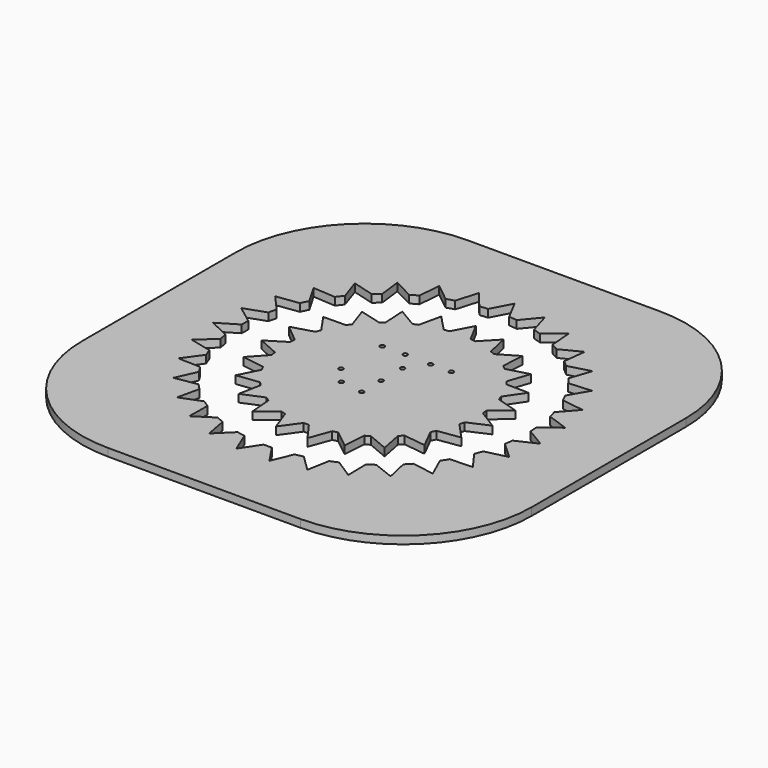
from build123d import *

# Parameters (mm, degrees)
F0_W     = 177.8
F0_H     = 177.8
F0_R     = 76.2
F0_R_2   = 0.8763
F1_DEPTH = 1.524
F2_R     = 50.8


with BuildPart() as f1:
    # F0 (on Top) → F1 (new body, symmetric)
    with BuildSketch(Plane.XY):
        with Locations((0.25484, -0.000745)):
            Rectangle(F0_W, F0_H)
        Circle(F0_R, mode=Mode.SUBTRACT)
        Circle(F0_R)
        with BuildLine():
            ThreePointArc((56.972457, 4.501288), (57.076648, 2.8946), (57.135538, 1.285615))
            Line((57.135538, 1.285615), (64.761016, -3.284307))
            Line((64.761016, -3.284307), (56.71233, -7.059325))
            ThreePointArc((56.71233, -7.059325), (56.490965, -8.654097), (56.224762, -10.242001))
            Line((56.224762, -10.242001), (62.774228, -16.253374))
            Line((62.774228, -16.253374), (54.130394, -18.330929))
            ThreePointArc((54.130394, -18.330929), (53.592534, -19.848495), (53.012139, -21.350308))
            Line((53.012139, -21.350308), (58.217456, -28.557025))
            Line((58.217456, -28.557025), (49.332353, -28.852062))
            ThreePointArc((49.332353, -28.852062), (48.500019, -30.230293), (47.629192, -31.584531))
            Line((47.629192, -31.584531), (51.277254, -39.691549))
            Line((51.277254, -39.691549), (42.514639, -38.191988))
            ThreePointArc((42.514639, -38.191988), (41.421908, -39.374459), (40.2963, -40.52568))
            Line((40.2963, -40.52568), (42.237756, -49.201096))
            Line((42.237756, -49.201096), (33.956372, -45.96833))
            ThreePointArc((33.956372, -45.96833), (32.647978, -46.906631), (31.313673, -47.807702))
            Line((31.313673, -47.807702), (31.469038, -56.696344))
            Line((31.469038, -56.696344), (24.007926, -51.862723))
            ThreePointArc((24.007926, -51.862723), (22.537437, -52.518439), (21.04906, -53.132472))
            Line((21.04906, -53.132472), (19.411975, -61.870438))
            Line((19.411975, -61.870438), (13.076593, -55.63385))
            ThreePointArc((13.076593, -55.63385), (11.50421, -55.980136), (9.922697, -56.281992))
            Line((9.922697, -56.281992), (6.560183, -64.511548))
            Line((6.560183, -64.511548), (1.609903, -57.12732))
            ThreePointArc((1.609903, -57.12732), (0, -57.15), (-1.609903, -57.12732))
            Line((-1.609903, -57.12732), (-6.560183, -64.511548))
            Line((-6.560183, -64.511548), (-9.922697, -56.281992))
            ThreePointArc((-9.922697, -56.281992), (-11.50421, -55.980136), (-13.076593, -55.63385))
            Line((-13.076593, -55.63385), (-19.411975, -61.870438))
            Line((-19.411975, -61.870438), (-21.04906, -53.132472))
            ThreePointArc((-21.04906, -53.132472), (-22.537437, -52.518439), (-24.007926, -51.862723))
            Line((-24.007926, -51.862723), (-31.469038, -56.696344))
            Line((-31.469038, -56.696344), (-31.313673, -47.807702))
            ThreePointArc((-31.313673, -47.807702), (-32.647978, -46.906631), (-33.956372, -45.96833))
            Line((-33.956372, -45.96833), (-42.237756, -49.201096))
            Line((-42.237756, -49.201096), (-40.2963, -40.52568))
            ThreePointArc((-40.2963, -40.52568), (-41.421908, -39.374459), (-42.514639, -38.191988))
            Line((-42.514639, -38.191988), (-51.277254, -39.691549))
            Line((-51.277254, -39.691549), (-47.629192, -31.584531))
            ThreePointArc((-47.629192, -31.584531), (-48.500019, -30.230293), (-49.332353, -28.852062))
            Line((-49.332353, -28.852062), (-58.217456, -28.557025))
            Line((-58.217456, -28.557025), (-53.012139, -21.350308))
            ThreePointArc((-53.012139, -21.350308), (-53.592534, -19.848495), (-54.130394, -18.330929))
            Line((-54.130394, -18.330929), (-62.774228, -16.253374))
            Line((-62.774228, -16.253374), (-56.224762, -10.242001))
            ThreePointArc((-56.224762, -10.242001), (-56.490965, -8.654097), (-56.71233, -7.059325))
            Line((-56.71233, -7.059325), (-64.761016, -3.284307))
            Line((-64.761016, -3.284307), (-57.135538, 1.285615))
            ThreePointArc((-57.135538, 1.285615), (-57.076648, 2.8946), (-56.972457, 4.501288))
            Line((-56.972457, 4.501288), (-64.09648, 9.81922))
            Line((-64.09648, 9.81922), (-55.707178, 12.760597))
            ThreePointArc((-55.707178, 12.760597), (-55.325607, 14.324792), (-54.900125, 15.877618))
            Line((-54.900125, 15.877618), (-60.807827, 22.520746))
            Line((-60.807827, 22.520746), (-51.998159, 23.71316))
            ThreePointArc((-51.998159, 23.71316), (-51.309529, 25.168526), (-50.580176, 26.603916))
            Line((-50.580176, 26.603916), (-55.029694, 34.300271))
            Line((-55.029694, 34.300271), (-46.16033, 33.694902))
            ThreePointArc((-46.16033, 33.694902), (-45.192833, 34.981857), (-44.189468, 36.241047))
            Line((-44.189468, 36.241047), (-46.99864, 44.675538))
            Line((-46.99864, 44.675538), (-38.432691, 42.297172))
            ThreePointArc((-38.432691, 42.297172), (-37.225937, 43.363027), (-35.989638, 44.394465))
            Line((-35.989638, 44.394465), (-37.043455, 53.221784))
            Line((-37.043455, 53.221784), (-29.131614, 49.16779))
            ThreePointArc((-29.131614, 49.16779), (-27.735007, 49.968909), (-26.316388, 50.730368))
            Line((-26.316388, 50.730368), (-25.571707, 59.589124))
            Line((-25.571707, 59.589124), (-18.637884, 54.025473))
            ThreePointArc((-18.637884, 54.025473), (-17.108602, 54.529059), (-15.565742, 54.989364))
            Line((-15.565742, 54.989364), (-13.05305, 63.516878))
            Line((-13.05305, 63.516878), (-7.381118, 56.671347))
            ThreePointArc((-7.381118, 56.671347), (-5.78177, 56.856782), (-4.177832, 56.99709))
            Line((-4.177832, 56.99709), (0, 64.844243))
            Line((0, 64.844243), (4.177832, 56.99709))
            ThreePointArc((4.177832, 56.99709), (5.78177, 56.856782), (7.381118, 56.671347))
            Line((7.381118, 56.671347), (13.05305, 63.516878))
            Line((13.05305, 63.516878), (15.565742, 54.989364))
            ThreePointArc((15.565742, 54.989364), (17.108602, 54.529059), (18.637884, 54.025473))
            Line((18.637884, 54.025473), (25.571707, 59.589124))
            Line((25.571707, 59.589124), (26.316388, 50.730368))
            ThreePointArc((26.316388, 50.730368), (27.735007, 49.968909), (29.131614, 49.16779))
            Line((29.131614, 49.16779), (37.043455, 53.221784))
            Line((37.043455, 53.221784), (35.989638, 44.394465))
            ThreePointArc((35.989638, 44.394465), (37.225937, 43.363027), (38.432691, 42.297172))
            Line((38.432691, 42.297172), (46.99864, 44.675538))
            Line((46.99864, 44.675538), (44.189468, 36.241047))
            ThreePointArc((44.189468, 36.241047), (45.192833, 34.981857), (46.16033, 33.694902))
            Line((46.16033, 33.694902), (55.029694, 34.300271))
            Line((55.029694, 34.300271), (50.580176, 26.603916))
            ThreePointArc((50.580176, 26.603916), (51.309529, 25.168526), (51.998159, 23.71316))
            Line((51.998159, 23.71316), (60.807827, 22.520746))
            Line((60.807827, 22.520746), (54.900125, 15.877618))
            ThreePointArc((54.900125, 15.877618), (55.325607, 14.324792), (55.707178, 12.760597))
            Line((55.707178, 12.760597), (64.09648, 9.81922))
            Line((64.09648, 9.81922), (56.972457, 4.501288))
        make_face(mode=Mode.SUBTRACT)
        with BuildLine():
            ThreePointArc((-14.240614, 35.338575), (-10.279257, 36.687149), (-6.1939, 37.593159))
            Line((-6.1939, 37.593159), (-12.334326, 44.021787))
            Line((-12.334326, 44.021787), (-14.240614, 35.338575))
        make_face()
        with BuildLine():
            ThreePointArc((-23.246767, 30.186053), (-19.796148, 32.553379), (-16.106726, 34.528009))
            Line((-16.106726, 34.528009), (-23.753872, 39.061578))
            Line((-23.753872, 39.061578), (-23.246767, 30.186053))
        make_face()
        with BuildLine():
            ThreePointArc((-30.528814, 22.79477), (-27.84485, 26.005275), (-24.82499, 28.902074))
            Line((-24.82499, 28.902074), (-33.411702, 31.204351))
            Line((-33.411702, 31.204351), (-30.528814, 22.79477))
        make_face()
        with BuildLine():
            ThreePointArc((-35.546678, 13.712903), (-33.828427, 17.528478), (-31.702098, 21.132604))
            Line((-31.702098, 21.132604), (-40.591538, 21.03284))
            Line((-40.591538, 21.03284), (-35.546678, 13.712903))
        make_face()
        with BuildLine():
            ThreePointArc((37.496775, -6.752913), (37.948894, -3.389901), (38.1, 0))
            ThreePointArc((38.1, 0), (38.091762, 0.792274), (38.06705, 1.584206))
            ThreePointArc((38.06705, 1.584206), (38.01118, 2.600036), (37.928207, 3.614012))
            ThreePointArc((37.928207, 3.614012), (37.303104, 7.751674), (36.228007, 11.795826))
            ThreePointArc((36.228007, 11.795826), (35.900141, 12.758913), (35.546678, 13.712903))
            ThreePointArc((35.546678, 13.712903), (33.828427, 17.528478), (31.702098, 21.132604))
            ThreePointArc((31.702098, 21.132604), (31.126553, 21.97152), (30.528814, 22.79477))
            ThreePointArc((30.528814, 22.79477), (27.84485, 26.005275), (24.82499, 28.902074))
            ThreePointArc((24.82499, 28.902074), (24.044451, 29.5546), (23.246767, 30.186053))
            ThreePointArc((23.246767, 30.186053), (19.796148, 32.553379), (16.106726, 34.528009))
            ThreePointArc((16.106726, 34.528009), (15.179082, 34.945751), (14.240614, 35.338575))
            ThreePointArc((14.240614, 35.338575), (10.279257, 36.687149), (6.1939, 37.593159))
            ThreePointArc((6.1939, 37.593159), (5.187949, 37.745135), (4.1783, 37.870197))
            ThreePointArc((4.1783, 37.870197), (0, 38.1), (-4.1783, 37.870197))
            ThreePointArc((-4.1783, 37.870197), (-5.187949, 37.745135), (-6.1939, 37.593159))
            ThreePointArc((-6.1939, 37.593159), (-10.279257, 36.687149), (-14.240614, 35.338575))
            ThreePointArc((-14.240614, 35.338575), (-15.179082, 34.945751), (-16.106726, 34.528009))
            ThreePointArc((-16.106726, 34.528009), (-19.796148, 32.553379), (-23.246767, 30.186053))
            ThreePointArc((-23.246767, 30.186053), (-24.044451, 29.5546), (-24.82499, 28.902074))
            ThreePointArc((-24.82499, 28.902074), (-27.84485, 26.005275), (-30.528814, 22.79477))
            ThreePointArc((-30.528814, 22.79477), (-31.126553, 21.97152), (-31.702098, 21.132604))
            ThreePointArc((-31.702098, 21.132604), (-33.828427, 17.528478), (-35.546678, 13.712903))
            ThreePointArc((-35.546678, 13.712903), (-35.900141, 12.758913), (-36.228007, 11.795826))
            ThreePointArc((-36.228007, 11.795826), (-37.303104, 7.751674), (-37.928207, 3.614012))
            ThreePointArc((-37.928207, 3.614012), (-38.01118, 2.600036), (-38.06705, 1.584206))
            ThreePointArc((-38.06705, 1.584206), (-38.01118, -2.600036), (-37.496775, -6.752913))
            ThreePointArc((-37.496775, -6.752913), (-37.303104, -7.751674), (-37.082834, -8.744908))
            ThreePointArc((-37.082834, -8.744908), (-35.900141, -12.758913), (-34.284379, -16.619006))
            ThreePointArc((-34.284379, -16.619006), (-33.828427, -17.528478), (-33.348354, -18.425452))
            ThreePointArc((-33.348354, -18.425452), (-31.126553, -21.97152), (-28.529267, -25.252543))
            ThreePointArc((-28.529267, -25.252543), (-27.84485, -26.005275), (-27.140579, -26.739465))
            ThreePointArc((-27.140579, -26.739465), (-24.044451, -29.5546), (-20.65827, -32.013214))
            ThreePointArc((-20.65827, -32.013214), (-19.796148, -32.553379), (-18.919912, -33.070333))
            ThreePointArc((-18.919912, -33.070333), (-15.179082, -34.945751), (-11.255144, -36.399612))
            ThreePointArc((-11.255144, -36.399612), (-10.279257, -36.687149), (-9.296041, -36.948527))
            ThreePointArc((-9.296041, -36.948527), (-5.187949, -37.745135), (-1.017275, -38.086417))
            ThreePointArc((-1.017275, -38.086417), (0, -38.1), (1.017275, -38.086417))
            ThreePointArc((1.017275, -38.086417), (5.187949, -37.745135), (9.296041, -36.948527))
            ThreePointArc((9.296041, -36.948527), (10.279257, -36.687149), (11.255144, -36.399612))
            ThreePointArc((11.255144, -36.399612), (15.179082, -34.945751), (18.919912, -33.070333))
            ThreePointArc((18.919912, -33.070333), (19.796148, -32.553379), (20.65827, -32.013214))
            ThreePointArc((20.65827, -32.013214), (24.044451, -29.5546), (27.140579, -26.739465))
            ThreePointArc((27.140579, -26.739465), (27.84485, -26.005275), (28.529267, -25.252543))
            ThreePointArc((28.529267, -25.252543), (31.126553, -21.97152), (33.348354, -18.425452))
            ThreePointArc((33.348354, -18.425452), (33.828427, -17.528478), (34.284379, -16.619006))
            ThreePointArc((34.284379, -16.619006), (35.900141, -12.758913), (37.082834, -8.744908))
            ThreePointArc((37.082834, -8.744908), (37.303104, -7.751674), (37.496775, -6.752913))
        make_face()
        with Locations((-14.665669, -2.578267)):
            Circle(F0_R_2, mode=Mode.SUBTRACT)
        with Locations((-9.056332, -9.434124)):
            Circle(F0_R_2, mode=Mode.SUBTRACT)
        with Locations((0, -10.719791)):
            Circle(F0_R_2, mode=Mode.SUBTRACT)
        with Locations((0, -1.082443)):
            Circle(F0_R_2, mode=Mode.SUBTRACT)
        with Locations((0, 9.512971)):
            Circle(F0_R_2, mode=Mode.SUBTRACT)
        with Locations((-14.075539, 17.077591)):
            Circle(F0_R_2, mode=Mode.SUBTRACT)
        with Locations((-5.100599, 17.202243)):
            Circle(F0_R_2, mode=Mode.SUBTRACT)
        with Locations((5.120859, 16.952939)):
            Circle(F0_R_2, mode=Mode.SUBTRACT)
        with Locations((13.223235, 17.077591)):
            Circle(F0_R_2, mode=Mode.SUBTRACT)
        with BuildLine():
            ThreePointArc((-37.928207, 3.614012), (-37.303104, 7.751674), (-36.228007, 11.795826))
            Line((-36.228007, 11.795826), (-44.760886, 9.301419))
            Line((-44.760886, 9.301419), (-37.928207, 3.614012))
        make_face()
        with BuildLine():
            Line((-45.610524, -3.119845), (-37.496775, -6.752913))
            ThreePointArc((-37.496775, -6.752913), (-38.01118, -2.600036), (-38.06705, 1.584206))
            Line((-38.06705, 1.584206), (-45.610524, -3.119845))
        make_face()
        with BuildLine():
            Line((-43.077438, -15.309725), (-34.284379, -16.619006))
            ThreePointArc((-34.284379, -16.619006), (-35.900141, -12.758913), (-37.082834, -8.744908))
            Line((-37.082834, -8.744908), (-43.077438, -15.309725))
        make_face()
        with BuildLine():
            Line((-37.349495, -26.364153), (-28.529267, -25.252543))
            ThreePointArc((-28.529267, -25.252543), (-31.126553, -21.97152), (-33.348354, -18.425452))
            Line((-33.348354, -18.425452), (-37.349495, -26.364153))
        make_face()
        with BuildLine():
            Line((-18.213743, -41.932242), (-11.255144, -36.399612))
            ThreePointArc((-11.255144, -36.399612), (-15.179082, -34.945751), (-18.919912, -33.070333))
            Line((-18.919912, -33.070333), (-18.213743, -41.932242))
        make_face()
        with BuildLine():
            Line((-6.225144, -45.29129), (-1.017275, -38.086417))
            ThreePointArc((-1.017275, -38.086417), (-5.187949, -37.745135), (-9.296041, -36.948527))
            Line((-9.296041, -36.948527), (-6.225144, -45.29129))
        make_face()
        with BuildLine():
            Line((-28.851511, -35.463272), (-20.65827, -32.013214))
            ThreePointArc((-20.65827, -32.013214), (-24.044451, -29.5546), (-27.140579, -26.739465))
            Line((-27.140579, -26.739465), (-28.851511, -35.463272))
        make_face()
        with BuildLine():
            Line((6.225144, -45.29129), (9.296041, -36.948527))
            ThreePointArc((9.296041, -36.948527), (5.187949, -37.745135), (1.017275, -38.086417))
            Line((1.017275, -38.086417), (6.225144, -45.29129))
        make_face()
        with BuildLine():
            Line((18.213743, -41.932242), (18.919912, -33.070333))
            ThreePointArc((18.919912, -33.070333), (15.179082, -34.945751), (11.255144, -36.399612))
            Line((11.255144, -36.399612), (18.213743, -41.932242))
        make_face()
        with BuildLine():
            Line((28.851511, -35.463272), (27.140579, -26.739465))
            ThreePointArc((27.140579, -26.739465), (24.044451, -29.5546), (20.65827, -32.013214))
            Line((20.65827, -32.013214), (28.851511, -35.463272))
        make_face()
        with BuildLine():
            Line((37.349495, -26.364153), (33.348354, -18.425452))
            ThreePointArc((33.348354, -18.425452), (31.126553, -21.97152), (28.529267, -25.252543))
            Line((28.529267, -25.252543), (37.349495, -26.364153))
        make_face()
        with BuildLine():
            ThreePointArc((-4.1783, 37.870197), (0, 38.1), (4.1783, 37.870197))
            Line((4.1783, 37.870197), (0, 45.717101))
            Line((0, 45.717101), (-4.1783, 37.870197))
        make_face()
        with BuildLine():
            ThreePointArc((6.1939, 37.593159), (10.279257, 36.687149), (14.240614, 35.338575))
            Line((14.240614, 35.338575), (12.334326, 44.021787))
            Line((12.334326, 44.021787), (6.1939, 37.593159))
        make_face()
        with BuildLine():
            ThreePointArc((16.106726, 34.528009), (19.796148, 32.553379), (23.246767, 30.186053))
            Line((23.246767, 30.186053), (23.753872, 39.061578))
            Line((23.753872, 39.061578), (16.106726, 34.528009))
        make_face()
        with BuildLine():
            ThreePointArc((24.82499, 28.902074), (27.84485, 26.005275), (30.528814, 22.79477))
            Line((30.528814, 22.79477), (33.411702, 31.204351))
            Line((33.411702, 31.204351), (24.82499, 28.902074))
        make_face()
        with BuildLine():
            ThreePointArc((31.702098, 21.132604), (33.828427, 17.528478), (35.546678, 13.712903))
            Line((35.546678, 13.712903), (40.591538, 21.03284))
            Line((40.591538, 21.03284), (31.702098, 21.132604))
        make_face()
        with BuildLine():
            ThreePointArc((36.228007, 11.795826), (37.303104, 7.751674), (37.928207, 3.614012))
            Line((37.928207, 3.614012), (44.760886, 9.301419))
            Line((44.760886, 9.301419), (36.228007, 11.795826))
        make_face()
        with BuildLine():
            ThreePointArc((38.06705, 1.584206), (38.091762, 0.792274), (38.1, 0))
            ThreePointArc((38.1, 0), (37.948894, -3.389901), (37.496775, -6.752913))
            Line((37.496775, -6.752913), (45.610524, -3.119845))
            Line((45.610524, -3.119845), (38.06705, 1.584206))
        make_face()
        with BuildLine():
            Line((43.077438, -15.309725), (37.082834, -8.744908))
            ThreePointArc((37.082834, -8.744908), (35.900141, -12.758913), (34.284379, -16.619006))
            Line((34.284379, -16.619006), (43.077438, -15.309725))
        make_face()
    extrude(amount=F1_DEPTH, both=True)

    # F2
    f2_edges = [f1.edges().sort_by_distance(p)[0] for p in [
        (-88.64516, 88.899255, 0),
        (-88.64516, -88.900745, 0),
        (89.15484, -88.900745, 0),
        (89.15484, 88.899255, 0),
    ]]
    fillet(f2_edges, radius=F2_R)


solid = f1.part
